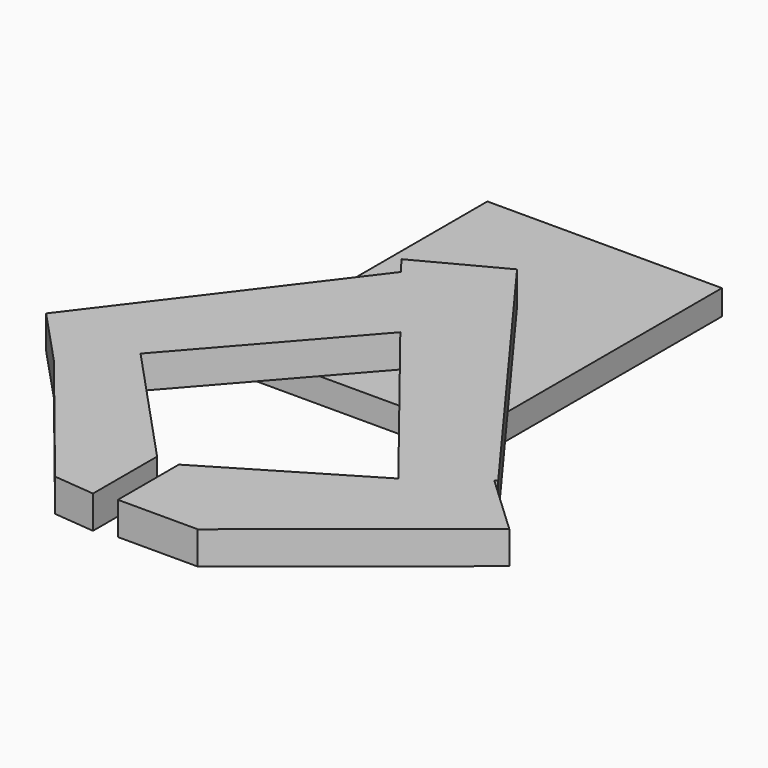
from build123d import *

# Parameters (mm, degrees)
F0_W     = 30
F0_H     = 40
F1_DEPTH = 3.2
F2_R     = 5.11227941
F3_DEPTH = 25
F5_DEPTH = 4.2


with BuildPart() as f1:
    # F0 (on Top) → F1 (new body)
    with BuildSketch(Plane.XY):
        with Locations((-43.6224012077, 20)):
            Rectangle(F0_W, F0_H)
    extrude(amount=F1_DEPTH)

    # F2 (on face) → F3 (cut)
    with BuildSketch(Plane.XY.offset(3.2)):
        with Locations((-43.6224012077, 13.6897208655)):
            Circle(F2_R)
    extrude(amount=-F3_DEPTH, mode=Mode.SUBTRACT)

    # F4 (on face) → F5 (join)
    with BuildSketch(Plane.XY.offset(3.2)):
        Polygon((-60.0767214389, -13.6426556282), (-67.4975478184, -5.6577981007), (-72.8724002838, -12.7526037395), (-65.8724009991, -20.2526040375), align=None)
        Polygon((-50.7815668435, 16.4072979817), (-67.4975478184, -5.6577981007), (-60.0767214389, -13.6426556282), (-42.700756127, 6.1745604691), align=None)
        Polygon((-52.4952933192, 18.5773912817), (-50.7815668435, 16.4072979817), (-47.8724017739, 20.2473960817), (-35.6223993003, 14.2473969609), (-42.700756127, 6.1745604691), (-23.0845756663, -18.6654256037), (-15.3557008339, -12.9879858125), (-15.0352679193, -12.7526037395), (-42.0897305012, 24.077475071), align=None)
        Polygon((-47.8724017739, 20.2473960817), (-50.7815668435, 16.4072979817), (-42.700756127, 6.1745604691), (-35.6223993003, 14.2473969609), align=None)
        Polygon((-44.8723994195, -30.00260517), (-60.0767214389, -13.6426556282), (-65.8724009991, -20.2526040375), (-50.1223988831, -39.7526025772), (-44.8723994195, -40.2526035905), align=None)
        Polygon((-15.3557008339, -12.9879858125), (-23.0845756663, -18.6654256037), (-42.0897305012, -30.00260517), (-42.0897305012, -39.7526025772), (-31.8723991513, -39.7526025772), (-7.6223979704, -20.2526040375), align=None)
    extrude(amount=F5_DEPTH)


solid = f1.part
